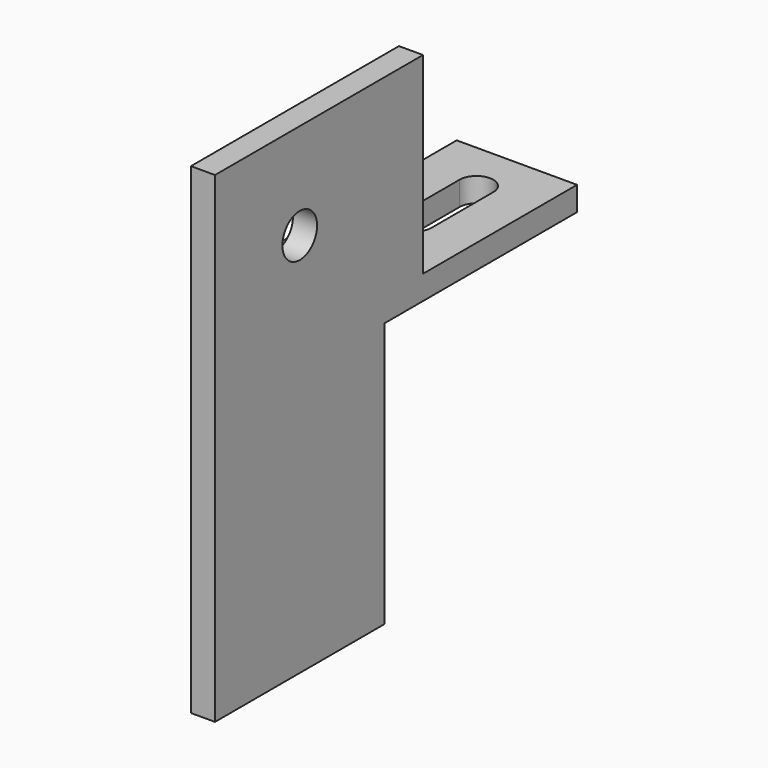
from build123d import *

# Parameters (mm, degrees)
F0_W      = 12.5012692667
F0_H      = 25
F1_DEPTH  = 2.5
F2_W      = 2.5
F2_H      = 20
F2_H_2    = 2.5
F2_H_3    = 27.5
F3_DEPTH  = 22
F4_DEPTH  = 5
F5_R      = 2.25
F6_DEPTH  = 25
F9_DEPTH  = 5
F11_DEPTH = 25


with BuildPart() as f1:
    # F0 (on Top) → F1 (new body)
    with BuildSketch(Plane.XY):
        with Locations((-3.4478325397, 12.5846065283)):
            Rectangle(F0_W, F0_H)
        with BuildLine():
            Line((-1.6978325397, 19.8346065283), (-1.6978325397, 11.8346065283))
            ThreePointArc((-1.6978325397, 11.8346065283), (-3.4478325397, 10.0846065283), (-5.1978325397, 11.8346065283))
            Line((-5.1978325397, 11.8346065283), (-5.1978325397, 19.8346065283))
            ThreePointArc((-5.1978325397, 19.8346065489), (-3.4478325254, 21.5846065283), (-1.6978325397, 19.8346065205))
        make_face(mode=Mode.SUBTRACT)
    extrude(amount=F1_DEPTH)

    # F2 (on face) → F3 (join)
    with BuildSketch(Plane.XZ.offset(-0.0846065283)):
        with Locations((1.5528020937, 12.5)):
            Rectangle(F2_W, F2_H)
        with Locations((1.5528020937, 1.25)):
            Rectangle(F2_W, F2_H_2)
        with Locations((1.5528020937, -13.75)):
            Rectangle(F2_W, F2_H_3)
    extrude(amount=F3_DEPTH)

    # F4 (add): a face of the model
    f4_faces = [f1.faces().sort_by_distance(p)[0] for p in [
        (1.5528020937, 0.0846065283, 12.5),
    ]]
    extrude(f4_faces, amount=F4_DEPTH)

    # F5 (on face) → F6 (cut)
    with BuildSketch(Plane(origin=(0.3028020937, 0, 0), x_dir=(0, -1, 0), z_dir=(-1, 0, 0))):
        with Locations((10.9153934717, 12.5)):
            Circle(F5_R)
    extrude(amount=-F6_DEPTH, mode=Mode.SUBTRACT)

    # F8 (on offset) → F9 (join)
    with BuildSketch(Plane.XZ.offset(-0.0846065283)):
        Polygon((0.3028020937, 12.5), (-9.698467173, 2.5), (0.3028020937, 2.5), align=None)
    extrude(amount=-F9_DEPTH)

    # F10 (on face) → F11 (cut)
    with BuildSketch(Plane(origin=(0, 5.0846065283, 0), x_dir=(-1, 0, 0), z_dir=(0, 1, 0))):
        with BuildLine():
            Line((9.698467173, 2.5), (-0.3028020937, 12.5))
            ThreePointArc((-0.3028020937, 12.5), (3.1881480162, 5.9901238573), (9.698467173, 2.5))
        make_face()
    extrude(amount=-F11_DEPTH, mode=Mode.SUBTRACT)


solid = f1.part
